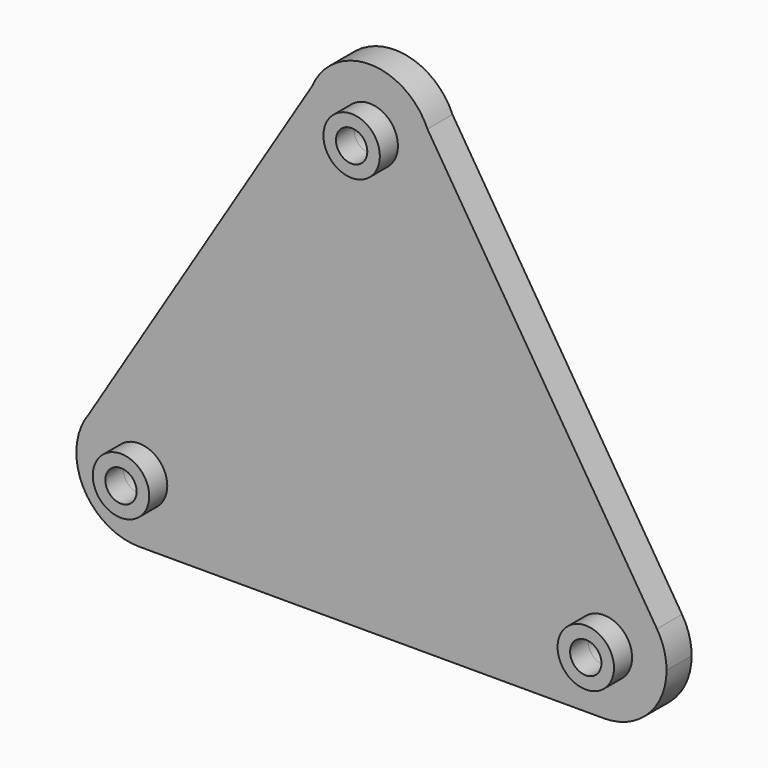
from build123d import *

# Parameters (mm, degrees)
F1_DEPTH = 6.35
F2_R     = 3.175
F3_DEPTH = 25.4
F2_R_2   = 5.715
F4_DEPTH = 4.572


with BuildPart() as f1:
    # F0 (on Front) → F1 (new body)
    with BuildSketch(Plane.XZ):
        with BuildLine():
            ThreePointArc((-11.6955887006, 80.7483033067), (-2.5254725798, 63.3518676414), (12.7, 75.7982321005))
            ThreePointArc((12.7, 75.7982321005), (12.4463644591, 78.3237046803), (11.6955887006, 80.7483033067))
            ThreePointArc((11.6955887006, 80.7483033067), (0, 88.4982321005), (-11.6955887006, 80.7483033067))
        make_face()
        with BuildLine():
            ThreePointArc((11.6955887006, 80.7483033067), (12.4463644591, 78.3237046803), (12.7, 75.7982321005))
            ThreePointArc((12.7, 75.7982321005), (-2.5254725798, 63.3518676414), (-11.6955887006, 80.7483033067))
            Line((-11.6955887006, 80.7483033067), (-56.9148214828, 7.5573103616))
            ThreePointArc((-56.9148214828, 7.5573103616), (-42.7291164055, 12.06058246), (-34.0081050618, 0))
            ThreePointArc((-34.0081050618, 0), (-37.7278489407, -8.9802561211), (-46.7081050618, -12.7))
            Line((-46.7081050618, -12.7), (47.4196799213, -12.7))
            ThreePointArc((47.4196799213, -12.7), (36.3047725839, 6.1440080469), (58.1740232476, 6.7553015936))
            Line((58.1740232476, 6.7553015936), (11.6955887006, 80.7483033067))
        make_face()
        with BuildLine():
            Line((47.4196799213, -12.7), (58.1740232476, 6.7553015936))
            ThreePointArc((58.1740232476, 6.7553015936), (36.3047725839, 6.1440080469), (47.4196799213, -12.7))
        make_face()
        with BuildLine():
            ThreePointArc((60.1196799213, 0), (59.6235760255, 3.5149565969), (58.1740232476, 6.7553015936))
            Line((58.1740232476, 6.7553015936), (47.4196799213, -12.7))
            ThreePointArc((47.4196799213, -12.7), (56.3999360424, -8.9802561211), (60.1196799213, 0))
        make_face()
        with BuildLine():
            Line((-46.7081050618, -12.7), (-56.9148214828, 7.5573103616))
            ThreePointArc((-56.9148214828, 7.5573103616), (-58.0497945654, -5.7145497814), (-46.7081050618, -12.7))
        make_face()
        with BuildLine():
            ThreePointArc((-34.0081050618, 0), (-42.7291164055, 12.06058246), (-56.9148214828, 7.5573103616))
            Line((-56.9148214828, 7.5573103616), (-46.7081050618, -12.7))
            ThreePointArc((-46.7081050618, -12.7), (-37.7278489407, -8.9802561211), (-34.0081050618, 0))
        make_face()
    extrude(amount=F1_DEPTH)

    # F2 (on face) → F3 (cut)
    with BuildSketch(Plane.XZ.offset(6.35)):
        with Locations((-46.7081050618, 0)):
            Circle(F2_R)
        with Locations((47.4196799213, 0)):
            Circle(F2_R)
        with Locations((0, 75.7982321005)):
            Circle(F2_R)
    extrude(amount=-F3_DEPTH, mode=Mode.SUBTRACT)

    # F2 (on face) → F4 (join)
    with BuildSketch(Plane.XZ.offset(6.35)):
        with Locations((47.4196799213, 0)):
            Circle(F2_R_2)
        with Locations((47.4196799213, 0)):
            Circle(F2_R, mode=Mode.SUBTRACT)
        with Locations((-46.7081050618, 0)):
            Circle(F2_R_2)
        with Locations((-46.7081050618, 0)):
            Circle(F2_R, mode=Mode.SUBTRACT)
        with Locations((0, 75.7982321005)):
            Circle(F2_R_2)
        with Locations((0, 75.7982321005)):
            Circle(F2_R, mode=Mode.SUBTRACT)
    extrude(amount=F4_DEPTH)


solid = f1.part
